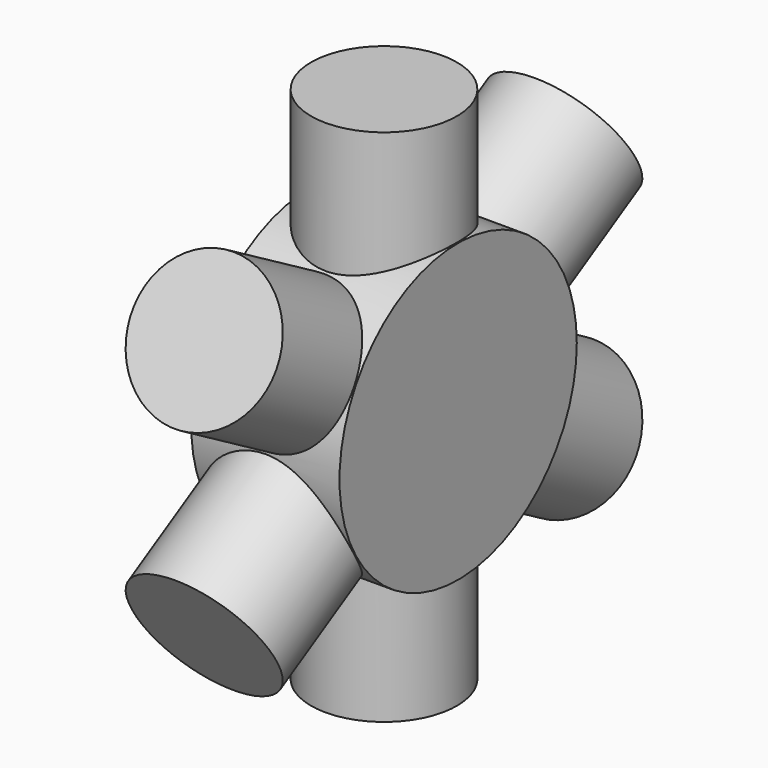
from build123d import *

# Parameters (mm, degrees)
F0_W     = 4.155186
F0_H     = 29.55925
F6_R     = 8.4455
F7_DEPTH = 4.22275


with BuildPart() as f3:
    # F0 (on Right) → F3 (revolve)
    with BuildSketch(Plane.YZ):
        with Locations((-2.077593, 0)):
            Rectangle(F0_W, F0_H)
    revolve(axis=Axis((0, 0, 0), (0, 0, -1)))

    # F1 (on Right) → F4 (revolve)
    with BuildSketch(Plane.YZ):
        Polygon((-12.7995307084, -7.3898125), (12.7995307084, 7.3898125), (10.7219377084, 10.9883091334), (-14.8771237084, -3.7913158666), align=None)
    revolve(axis=Axis((0, 0, 0), (0, -0.8660254038, -0.5)))

    # F2 (on Right) → F5 (revolve)
    with BuildSketch(Plane.YZ):
        Polygon((-12.7995307084, 7.3898125), (12.7995307084, -7.3898125), (14.8771237084, -3.7913158666), (-10.7219377084, 10.9883091334), align=None)
    revolve(axis=Axis((0, 0, 0), (0, -0.8660254038, 0.5)))

    # F6 (on Right) → F7 (join, symmetric)
    with BuildSketch(Plane.YZ):
        Circle(F6_R)
    extrude(amount=F7_DEPTH, both=True)


solid = f3.part
